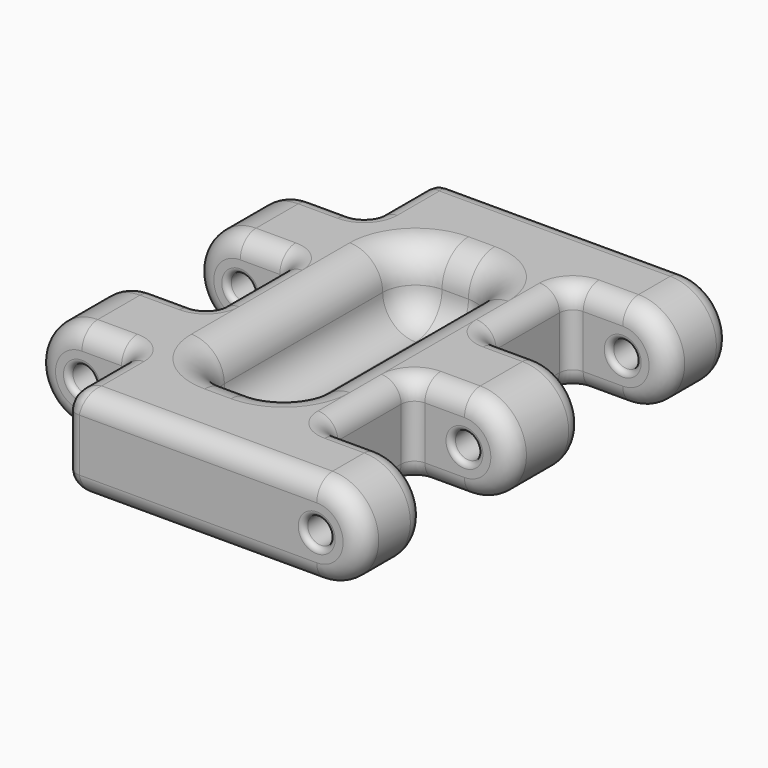
from build123d import *

# Parameters (mm, degrees)
SKETCH001_R     = 1
PAD_DEPTH       = 17.5
SKETCH_W        = 7.5
SKETCH_H        = 8
SKETCH_H_2      = 6.5
POCKET_DEPTH    = 7.001
SKETCH002_W     = 7
SKETCH002_H     = 20
POCKET001_DEPTH = 5
FILLET_R        = 2.499
FILLET001_R     = 1
FILLET002_R     = 1.5
FILLET003_R     = 0.4
SKETCH003_R     = 3
SKETCH003_W     = 3
SKETCH003_H     = 7
PAD001_DEPTH    = 1
FILLET004_R     = 0.4999


with BuildPart() as part:
    # Sketch001 → Pad (new body, symmetric)
    with BuildSketch(Plane.XZ):
        with BuildLine():
            ThreePointArc((-11.5, 3.5), (-15, 0), (-11.5, -3.5))
            Line((-11.5, -3.5), (11.5, -3.5))
            ThreePointArc((11.5, -3.5), (15, 0), (11.5, 3.5))
            Line((-11.5, 3.5), (11.5, 3.5))
        make_face()
        with Locations((-11.5, 0)):
            Circle(SKETCH001_R, mode=Mode.SUBTRACT)
        with Locations((11.5, 0)):
            Circle(SKETCH001_R, mode=Mode.SUBTRACT)
    extrude(amount=PAD_DEPTH, both=True)

    # Sketch → Pocket (cut, through all)
    with BuildSketch(Plane(origin=(0, 0, 3.5), x_dir=(-1, 0, 0), z_dir=(0, 0, 1))):
        with Locations((-11.25, 7.5)):
            Rectangle(SKETCH_W, SKETCH_H)
        with Locations((-11.25, -7.5)):
            Rectangle(SKETCH_W, SKETCH_H)
        with Locations((11.25, -14.25)):
            Rectangle(SKETCH_W, SKETCH_H_2)
        with Locations((11.25, 0)):
            Rectangle(SKETCH_W, SKETCH_H)
        with Locations((11.25, 14.25)):
            Rectangle(SKETCH_W, SKETCH_H_2)
    extrude(amount=-POCKET_DEPTH, mode=Mode.SUBTRACT)

    # Sketch002 (on Face5 of Pocket) → Pocket001 (cut)
    with BuildSketch(Plane(origin=(0, 0, 3.5), x_dir=(-1, 0, 0), z_dir=(0, 0, 1))):
        Rectangle(SKETCH002_W, SKETCH002_H)
    extrude(amount=-POCKET001_DEPTH, mode=Mode.SUBTRACT)

    # Fillet
    fillet_edges = [part.edges().sort_by_distance(p)[0] for p in [
        (-3.5, 0, 3.5),
        (0, 10, 3.5),
        (-3.5, 0, -1.5),
        (-3.5, -10, 1),
        (0, -10, 3.5),
        (0, -10, -1.5),
        (3.5, 0, 3.5),
        (3.5, -10, 1),
        (3.5, 0, -1.5),
        (3.5, 10, 1),
        (0, 10, -1.5),
        (-3.5, 10, 1),
    ]]
    fillet(fillet_edges, radius=FILLET_R)

    # Fillet001
    fillet001_edges = [part.edges().sort_by_distance(p)[0] for p in [
        (7.5, -3.5, 0),
        (7.5, 11.5, 0),
        (7.5, -11.5, 0),
        (7.5, 3.5, 0),
        (-7.5, -11, 0),
        (-7.5, 4, 0),
        (-7.5, -4, 0),
        (-7.5, 11, 0),
        (-7.5, 17.5, 0),
        (-7.5, -17.5, 0),
    ]]
    fillet(fillet001_edges, radius=FILLET001_R)

    # Fillet002
    fillet002_edges = [part.edges().sort_by_distance(p)[0] for p in [
        (13.974874, 3.5, 2.474874),
        (13.974874, -3.5, 2.474874),
        (-13.974874, -4, 2.474874),
        (-13.974874, -11, 2.474874),
        (-13.974874, 11, 2.474874),
    ]]
    fillet(fillet002_edges, radius=FILLET002_R)

    # Fillet003
    fillet003_edges = [part.edges().sort_by_distance(p)[0] for p in [
        (-12.5, -11, 0),
        (-12.5, 4, 0),
        (10.5, -17.5, 0),
        (10.5, -3.5, 0),
        (10.5, 11.5, 0),
        (-12.5, 11, 0),
        (-12.5, -4, 0),
        (10.5, 17.5, 0),
        (10.5, 3.5, 0),
        (10.5, -11.5, 0),
    ]]
    fillet(fillet003_edges, radius=FILLET003_R)

    # Sketch003 (on Face13 of Fillet003) → Pad001 (join)
    with BuildSketch(Plane(origin=(0, 0, -3.5), x_dir=(1, 0, 0), z_dir=(0, 0, -1))):
        with Locations((0, 10)):
            Circle(SKETCH003_R)
        with Locations((0, -10)):
            Circle(SKETCH003_R)
        Rectangle(SKETCH003_W, SKETCH003_H)
    extrude(amount=PAD001_DEPTH)

    # Fillet004
    fillet004_edges = [part.edges().sort_by_distance(p)[0] for p in [
        (-3, 10, -4.5),
        (-3, 10, -3.5),
        (0, 3.5, -3.5),
        (-1.5, 3.5, -4),
        (-1.5, 0, -4.5),
        (0, 3.5, -4.5),
        (1.5, 3.5, -4),
        (-1.5, 0, -3.5),
        (-3, -10, -3.5),
        (-3, -10, -4.5),
        (1.5, 0, -4.5),
        (0, -3.5, -4.5),
        (1.5, 0, -3.5),
        (0, -3.5, -3.5),
        (1.5, -3.5, -4),
        (-1.5, -3.5, -4),
    ]]
    fillet(fillet004_edges, radius=FILLET004_R)


solid = part.part
